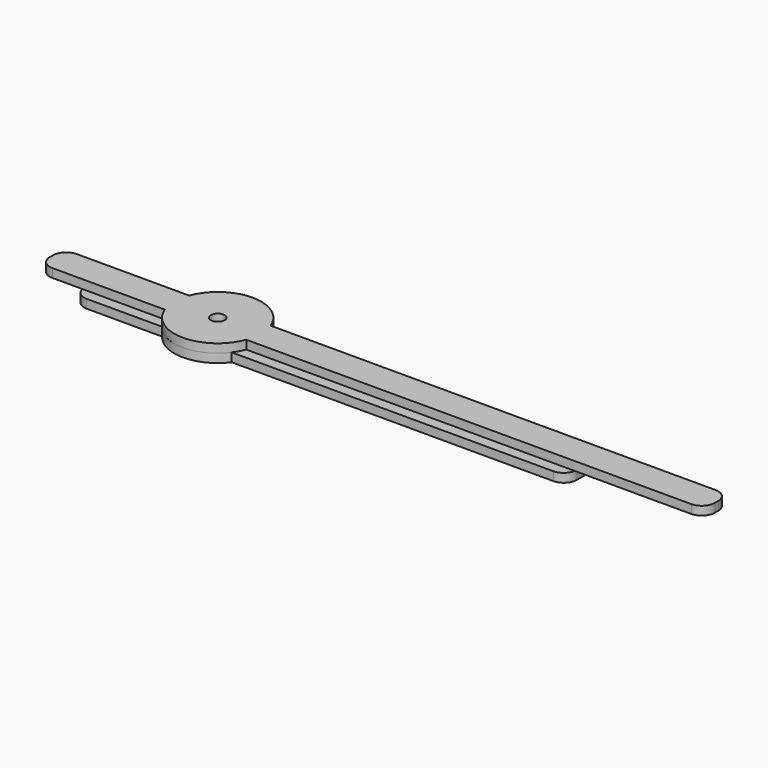
from build123d import *

# Parameters (mm, degrees)
F0_R     = 1.5875
F1_DEPTH = 2
F2_R     = 1.5875
F3_DEPTH = 2
F4_R     = 3
F4_2_R   = 3


with BuildPart() as f1:
    # F0 (on Top) → F1 (new body)
    with BuildSketch(Plane.XY):
        with BuildLine():
            Line((-9.3674969976, 3.5), (-38.25, 3.5))
            Line((-38.25, 3.5), (-38.25, -3.5))
            Line((-38.25, -3.5), (-9.3674969976, -3.5))
            ThreePointArc((-9.3674969976, -3.5), (-10, 0), (-9.3674969976, 3.5))
        make_face()
        with BuildLine():
            ThreePointArc((9.3674969976, 3.5), (0, 10), (-9.3674969976, 3.5))
            Line((-9.3674969976, 3.5), (9.3674969976, 3.5))
        make_face()
        with BuildLine():
            Line((9.3674969976, 3.5), (-9.3674969976, 3.5))
            ThreePointArc((-9.3674969976, 3.5), (-10, 0), (-9.3674969976, -3.5))
            Line((-9.3674969976, -3.5), (9.3674969976, -3.5))
            ThreePointArc((9.3674969976, -3.5), (9.8406038935, -1.7783461452), (10, 0))
            ThreePointArc((10, 0), (9.8406038935, 1.7783461452), (9.3674969976, 3.5))
        make_face()
        Circle(F0_R, mode=Mode.SUBTRACT)
        with BuildLine():
            Line((114.75, 3.5), (9.3674969976, 3.5))
            ThreePointArc((9.3674969976, 3.5), (9.8406038935, 1.7783461452), (10, 0))
            ThreePointArc((10, 0), (9.8406038935, -1.7783461452), (9.3674969976, -3.5))
            Line((9.3674969976, -3.5), (114.75, -3.5))
            Line((114.75, -3.5), (114.75, 3.5))
        make_face()
        with BuildLine():
            Line((9.3674969976, -3.5), (-9.3674969976, -3.5))
            ThreePointArc((-9.3674969976, -3.5), (0, -10), (9.3674969976, -3.5))
        make_face()
    extrude(amount=F1_DEPTH)

    # F4
    f4_edges = [f1.edges().sort_by_distance(p)[0] for p in [
        (-38.25, 3.5, 1),
        (-38.25, -3.5, 1),
        (114.75, -3.5, 1),
        (114.75, 3.5, 1),
    ]]
    fillet(f4_edges, radius=F4_R)


with BuildPart() as f3:
    # F2 (on Top) → F3 (new body)
    with BuildSketch(Plane.XY):
        with BuildLine():
            Line((-8, 6), (-28.3333333333, 6))
            Line((-28.3333333333, 6), (-28.3333333333, -6))
            Line((-28.3333333333, -6), (-8, -6))
            ThreePointArc((-8, -6), (-10, 0), (-8, 6))
        make_face()
        with BuildLine():
            ThreePointArc((8, 6), (0, 10), (-8, 6))
            Line((-8, 6), (8, 6))
        make_face()
        with BuildLine():
            Line((8, 6), (-8, 6))
            ThreePointArc((-8, 6), (-10, 0), (-8, -6))
            Line((-8, -6), (8, -6))
            ThreePointArc((8, -6), (9.4868329805, -3.1622776602), (10, 0))
            ThreePointArc((10, 0), (9.4868329805, 3.1622776602), (8, 6))
        make_face()
        Circle(F2_R, mode=Mode.SUBTRACT)
        with BuildLine():
            Line((85, 6), (8, 6))
            ThreePointArc((8, 6), (9.4868329805, 3.1622776602), (10, 0))
            ThreePointArc((10, 0), (9.4868329805, -3.1622776602), (8, -6))
            Line((8, -6), (85, -6))
            Line((85, -6), (85, 6))
        make_face()
        with BuildLine():
            Line((8, -6), (-8, -6))
            ThreePointArc((-8, -6), (0, -10), (8, -6))
        make_face()
    extrude(amount=-F3_DEPTH)

    # F4#2
    f4_2_edges = [f3.edges().sort_by_distance(p)[0] for p in [
        (-28.333333, 6, -1),
        (-28.333333, -6, -1),
        (85, -6, -1),
        (85, 6, -1),
    ]]
    fillet(f4_2_edges, radius=F4_2_R)


solid = Compound([f1.part, f3.part])
